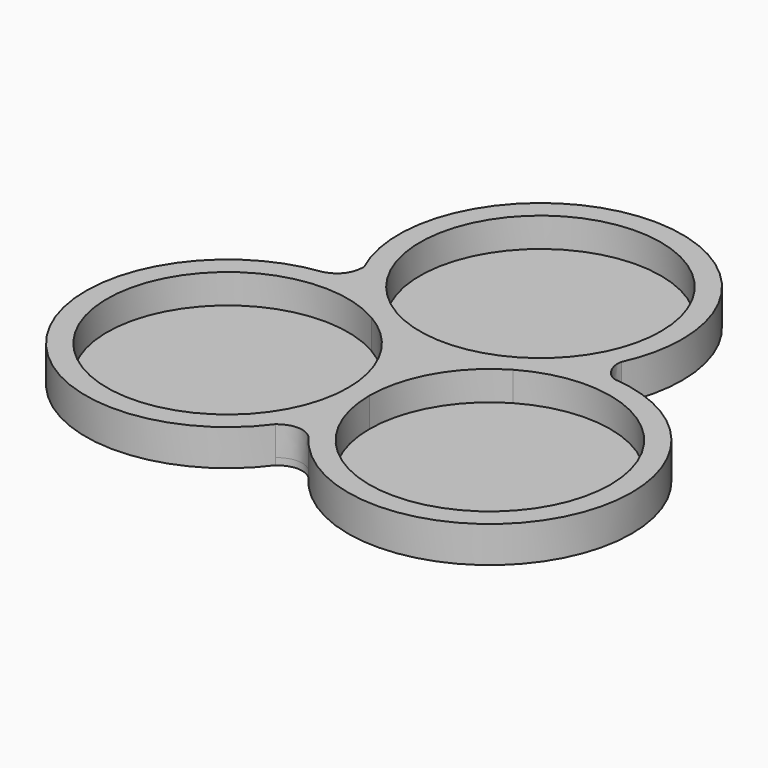
from build123d import *

# Parameters (mm, degrees)
F1_DEPTH = 0.8
F2_DEPTH = 4.25


with BuildPart() as f1:
    # F0 (on Top) → F1 (new body)
    with BuildSketch(Plane.XY):
        with BuildLine():
            ThreePointArc((-1.9441843304, -9.8063002537), (-0.8677403981, -8.1262494955), (0, -6.3294944506))
            ThreePointArc((0, -6.3294944506), (-0.934511012, -3.2258719751), (-1.25, 0))
            ThreePointArc((-1.25, 0), (-27.654259501, -7.0749999351), (-8.3249998702, 12.2542593886))
            ThreePointArc((-8.3249998702, 12.2542593886), (-10.9609425294, 14.14041688), (-13.1815029873, 16.5015384436))
            ThreePointArc((-13.1815029873, 16.5015384436), (-15.2798080373, 16.6495661773), (-17.3800314921, 16.5318473042))
            ThreePointArc((-17.3800314921, 16.5318473042), (-29.7648149942, -8.4187047805), (-1.9441843304, -9.8063002537))
        make_face()
        with BuildLine():
            ThreePointArc((29.55, 0), (15.4, -14.15), (1.25, 0))
            ThreePointArc((1.25, 0), (0.934511012, -3.2258719751), (0, -6.3294944506))
            ThreePointArc((0, -6.3294944506), (0.8614331824, -8.1149599439), (1.9289676052, -9.7853863601))
            ThreePointArc((1.9289676052, -9.7853863601), (20.5444052438, -15.835327426), (32.05, 0))
            ThreePointArc((32.05, 0), (27.6726376204, 11.2518827686), (16.8422083078, 16.5874209929))
            ThreePointArc((16.8422083078, 16.5874209929), (15.0094875272, 16.6454197907), (13.1815029873, 16.5015384436))
            ThreePointArc((13.1815029873, 16.5015384436), (10.9609426486, 14.1404169843), (8.3250001445, 12.2542595469))
            ThreePointArc((8.3250001445, 12.2542595469), (22.4750000722, 12.2542594219), (29.55, 0))
        make_face()
        with BuildLine():
            ThreePointArc((7.075000026, 14.419322988), (10.026431588, 15.7590374872), (13.1815029873, 16.5015384436))
            ThreePointArc((13.1815029873, 16.5015384436), (14.2351793304, 18.0374855502), (15.1107061135, 19.681511159))
            ThreePointArc((15.1107061135, 19.681511159), (16.2606235549, 23.0938308244), (16.65, 26.6735824366))
            ThreePointArc((16.65, 26.6735824366), (-3.5797516122, 42.9342059915), (-15.1107061135, 19.681511159))
            ThreePointArc((-15.1107061135, 19.681511159), (-14.2351793304, 18.0374855502), (-13.1815029873, 16.5015384436))
            ThreePointArc((-13.1815029873, 16.5015384436), (-10.0264316681, 15.7590375145), (-7.0750001725, 14.4193230726))
            ThreePointArc((-7.0750001725, 14.4193230726), (-7.0749999137, 38.9278419499), (14.15, 26.6735824366))
            ThreePointArc((14.15, 26.6735824366), (12.254259471, 19.5985824495), (7.075000026, 14.419322988))
        make_face()
        with BuildLine():
            ThreePointArc((8.3250001445, 12.2542595469), (3.1457405781, 7.0750000722), (1.25, 0))
            ThreePointArc((1.25, 0), (15.4, -14.15), (29.55, 0))
            ThreePointArc((29.55, 0), (22.4750000722, 12.2542594219), (8.3250001445, 12.2542595469))
        make_face()
        with BuildLine():
            ThreePointArc((-7.0750001725, 14.4193230726), (-8.46e-08, 12.5235824366), (7.075000026, 14.419322988))
            ThreePointArc((7.075000026, 14.419322988), (12.254259471, 19.5985824495), (14.15, 26.6735824366))
            ThreePointArc((14.15, 26.6735824366), (-7.0749999137, 38.9278419499), (-7.0750001725, 14.4193230726))
        make_face()
        with BuildLine():
            ThreePointArc((-8.3249998702, 12.2542593886), (-27.654259501, -7.0749999351), (-1.25, 0))
            ThreePointArc((-1.25, 0), (-3.145740499, 7.0749999351), (-8.3249998702, 12.2542593886))
        make_face()
        with BuildLine():
            ThreePointArc((15.1107061135, 19.681511159), (14.2351793304, 18.0374855502), (13.1815029873, 16.5015384436))
            ThreePointArc((13.1815029873, 16.5015384436), (15.0094875272, 16.6454197907), (16.8422083078, 16.5874209929))
            add(Edge.make_bspline(
                [(15.1107061135, 19.681511159), (14.7949214968, 18.5853722938), (15.7018187627, 16.8237693996), (16.8422083078, 16.5874209929)],
                knots=[0, 0, 0, 0, 3.5456302408, 3.5456302408, 3.5456302408, 3.5456302408], degree=3))
        make_face()
        with BuildLine():
            ThreePointArc((1.9289676052, -9.7853863601), (0.8614331824, -8.1149599439), (0, -6.3294944506))
            ThreePointArc((0, -6.3294944506), (-0.8677403981, -8.1262494955), (-1.9441843304, -9.8063002537))
            add(Edge.make_bspline(
                [(-1.9441843304, -9.8063002537), (-0.6821660037, -8.8059748815), (0.8183994243, -8.8064145129), (1.9289676052, -9.7853863601)],
                knots=[0, 0, 0, 0, 3.8732083996, 3.8732083996, 3.8732083996, 3.8732083996], degree=3))
        make_face()
        with BuildLine():
            add(Edge.make_bspline(
                [(-17.3800314921, 16.5318473042), (-15.7951249097, 17.0070298051), (-15.1426289174, 18.1383281448), (-15.1107061135, 19.681511159)],
                knots=[0, 0, 0, 0, 3.8820381337, 3.8820381337, 3.8820381337, 3.8820381337], degree=3))
            ThreePointArc((-17.3800314921, 16.5318473042), (-15.2798080373, 16.6495661773), (-13.1815029873, 16.5015384436))
            ThreePointArc((-13.1815029873, 16.5015384436), (-14.2351793304, 18.0374855502), (-15.1107061135, 19.681511159))
        make_face()
        with BuildLine():
            ThreePointArc((-2.2184970127, 10.172043993), (-0.980677027, 8.325), (0, 6.3294944506))
            ThreePointArc((0, 6.3294944506), (0.980677027, 8.325), (2.2184970127, 10.172043993))
            ThreePointArc((2.2184970127, 10.172043993), (0, 10.0235824366), (-2.2184970127, 10.172043993))
        make_face()
        with BuildLine():
            ThreePointArc((0, 6.3294944506), (0.934511012, 3.2258719751), (1.25, 0))
            ThreePointArc((1.25, 0), (3.1457405781, 7.0750000722), (8.3250001445, 12.2542595469))
            ThreePointArc((8.3250001445, 12.2542595469), (5.3735685051, 10.9145449811), (2.2184970127, 10.172043993))
            ThreePointArc((2.2184970127, 10.172043993), (0.980677027, 8.325), (0, 6.3294944506))
        make_face()
        with BuildLine():
            ThreePointArc((-2.2184970127, 10.172043993), (0, 10.0235824366), (2.2184970127, 10.172043993))
            ThreePointArc((2.2184970127, 10.172043993), (4.4390574255, 12.5331655171), (7.075000026, 14.419322988))
            ThreePointArc((7.075000026, 14.419322988), (-8.46e-08, 12.5235824366), (-7.0750001725, 14.4193230726))
            ThreePointArc((-7.0750001725, 14.4193230726), (-4.4390574892, 12.5331655728), (-2.2184970127, 10.172043993))
        make_face()
        with BuildLine():
            ThreePointArc((-1.25, 0), (-0.934511012, 3.2258719751), (0, 6.3294944506))
            ThreePointArc((0, 6.3294944506), (-0.980677027, 8.325), (-2.2184970127, 10.172043993))
            ThreePointArc((-2.2184970127, 10.172043993), (-5.3735683552, 10.91454493), (-8.3249998702, 12.2542593886))
            ThreePointArc((-8.3249998702, 12.2542593886), (-3.145740499, 7.0749999351), (-1.25, 0))
        make_face()
        with BuildLine():
            ThreePointArc((2.2184970127, 10.172043993), (5.3735685051, 10.9145449811), (8.3250001445, 12.2542595469))
            ThreePointArc((8.3250001445, 12.2542595469), (10.9609426486, 14.1404169843), (13.1815029873, 16.5015384436))
            ThreePointArc((13.1815029873, 16.5015384436), (10.026431588, 15.7590374872), (7.075000026, 14.419322988))
            ThreePointArc((7.075000026, 14.419322988), (4.4390574255, 12.5331655171), (2.2184970127, 10.172043993))
        make_face()
        with BuildLine():
            ThreePointArc((0, -6.3294944506), (0.934511012, -3.2258719751), (1.25, 0))
            ThreePointArc((1.25, 0), (0.934511012, 3.2258719751), (0, 6.3294944506))
            ThreePointArc((0, 6.3294944506), (-0.934511012, 3.2258719751), (-1.25, 0))
            ThreePointArc((-1.25, 0), (-0.934511012, -3.2258719751), (0, -6.3294944506))
        make_face()
        with BuildLine():
            ThreePointArc((-8.3249998702, 12.2542593886), (-5.3735683552, 10.91454493), (-2.2184970127, 10.172043993))
            ThreePointArc((-2.2184970127, 10.172043993), (-4.4390574892, 12.5331655728), (-7.0750001725, 14.4193230726))
            ThreePointArc((-7.0750001725, 14.4193230726), (-10.0264316681, 15.7590375145), (-13.1815029873, 16.5015384436))
            ThreePointArc((-13.1815029873, 16.5015384436), (-10.9609425294, 14.14041688), (-8.3249998702, 12.2542593886))
        make_face()
    extrude(amount=F1_DEPTH)

    # F0 (on Top) → F2 (join)
    with BuildSketch(Plane.XY):
        with BuildLine():
            ThreePointArc((29.55, 0), (15.4, -14.15), (1.25, 0))
            ThreePointArc((1.25, 0), (0.934511012, -3.2258719751), (0, -6.3294944506))
            ThreePointArc((0, -6.3294944506), (0.8614331824, -8.1149599439), (1.9289676052, -9.7853863601))
            ThreePointArc((1.9289676052, -9.7853863601), (20.5444052438, -15.835327426), (32.05, 0))
            ThreePointArc((32.05, 0), (27.6726376204, 11.2518827686), (16.8422083078, 16.5874209929))
            ThreePointArc((16.8422083078, 16.5874209929), (15.0094875272, 16.6454197907), (13.1815029873, 16.5015384436))
            ThreePointArc((13.1815029873, 16.5015384436), (10.9609426486, 14.1404169843), (8.3250001445, 12.2542595469))
            ThreePointArc((8.3250001445, 12.2542595469), (22.4750000722, 12.2542594219), (29.55, 0))
        make_face()
        with BuildLine():
            ThreePointArc((-1.9441843304, -9.8063002537), (-0.8677403981, -8.1262494955), (0, -6.3294944506))
            ThreePointArc((0, -6.3294944506), (-0.934511012, -3.2258719751), (-1.25, 0))
            ThreePointArc((-1.25, 0), (-27.654259501, -7.0749999351), (-8.3249998702, 12.2542593886))
            ThreePointArc((-8.3249998702, 12.2542593886), (-10.9609425294, 14.14041688), (-13.1815029873, 16.5015384436))
            ThreePointArc((-13.1815029873, 16.5015384436), (-15.2798080373, 16.6495661773), (-17.3800314921, 16.5318473042))
            ThreePointArc((-17.3800314921, 16.5318473042), (-29.7648149942, -8.4187047805), (-1.9441843304, -9.8063002537))
        make_face()
        with BuildLine():
            ThreePointArc((1.9289676052, -9.7853863601), (0.8614331824, -8.1149599439), (0, -6.3294944506))
            ThreePointArc((0, -6.3294944506), (-0.8677403981, -8.1262494955), (-1.9441843304, -9.8063002537))
            add(Edge.make_bspline(
                [(-1.9441843304, -9.8063002537), (-0.6821660037, -8.8059748815), (0.8183994243, -8.8064145129), (1.9289676052, -9.7853863601)],
                knots=[0, 0, 0, 0, 3.8732083996, 3.8732083996, 3.8732083996, 3.8732083996], degree=3))
        make_face()
        with BuildLine():
            ThreePointArc((15.1107061135, 19.681511159), (14.2351793304, 18.0374855502), (13.1815029873, 16.5015384436))
            ThreePointArc((13.1815029873, 16.5015384436), (15.0094875272, 16.6454197907), (16.8422083078, 16.5874209929))
            add(Edge.make_bspline(
                [(15.1107061135, 19.681511159), (14.7949214968, 18.5853722938), (15.7018187627, 16.8237693996), (16.8422083078, 16.5874209929)],
                knots=[0, 0, 0, 0, 3.5456302408, 3.5456302408, 3.5456302408, 3.5456302408], degree=3))
        make_face()
        with BuildLine():
            ThreePointArc((7.075000026, 14.419322988), (10.026431588, 15.7590374872), (13.1815029873, 16.5015384436))
            ThreePointArc((13.1815029873, 16.5015384436), (14.2351793304, 18.0374855502), (15.1107061135, 19.681511159))
            ThreePointArc((15.1107061135, 19.681511159), (16.2606235549, 23.0938308244), (16.65, 26.6735824366))
            ThreePointArc((16.65, 26.6735824366), (-3.5797516122, 42.9342059915), (-15.1107061135, 19.681511159))
            ThreePointArc((-15.1107061135, 19.681511159), (-14.2351793304, 18.0374855502), (-13.1815029873, 16.5015384436))
            ThreePointArc((-13.1815029873, 16.5015384436), (-10.0264316681, 15.7590375145), (-7.0750001725, 14.4193230726))
            ThreePointArc((-7.0750001725, 14.4193230726), (-7.0749999137, 38.9278419499), (14.15, 26.6735824366))
            ThreePointArc((14.15, 26.6735824366), (12.254259471, 19.5985824495), (7.075000026, 14.419322988))
        make_face()
        with BuildLine():
            add(Edge.make_bspline(
                [(-17.3800314921, 16.5318473042), (-15.7951249097, 17.0070298051), (-15.1426289174, 18.1383281448), (-15.1107061135, 19.681511159)],
                knots=[0, 0, 0, 0, 3.8820381337, 3.8820381337, 3.8820381337, 3.8820381337], degree=3))
            ThreePointArc((-17.3800314921, 16.5318473042), (-15.2798080373, 16.6495661773), (-13.1815029873, 16.5015384436))
            ThreePointArc((-13.1815029873, 16.5015384436), (-14.2351793304, 18.0374855502), (-15.1107061135, 19.681511159))
        make_face()
        with BuildLine():
            ThreePointArc((-8.3249998702, 12.2542593886), (-5.3735683552, 10.91454493), (-2.2184970127, 10.172043993))
            ThreePointArc((-2.2184970127, 10.172043993), (-4.4390574892, 12.5331655728), (-7.0750001725, 14.4193230726))
            ThreePointArc((-7.0750001725, 14.4193230726), (-10.0264316681, 15.7590375145), (-13.1815029873, 16.5015384436))
            ThreePointArc((-13.1815029873, 16.5015384436), (-10.9609425294, 14.14041688), (-8.3249998702, 12.2542593886))
        make_face()
        with BuildLine():
            ThreePointArc((-1.25, 0), (-0.934511012, 3.2258719751), (0, 6.3294944506))
            ThreePointArc((0, 6.3294944506), (-0.980677027, 8.325), (-2.2184970127, 10.172043993))
            ThreePointArc((-2.2184970127, 10.172043993), (-5.3735683552, 10.91454493), (-8.3249998702, 12.2542593886))
            ThreePointArc((-8.3249998702, 12.2542593886), (-3.145740499, 7.0749999351), (-1.25, 0))
        make_face()
        with BuildLine():
            ThreePointArc((-2.2184970127, 10.172043993), (0, 10.0235824366), (2.2184970127, 10.172043993))
            ThreePointArc((2.2184970127, 10.172043993), (4.4390574255, 12.5331655171), (7.075000026, 14.419322988))
            ThreePointArc((7.075000026, 14.419322988), (-8.46e-08, 12.5235824366), (-7.0750001725, 14.4193230726))
            ThreePointArc((-7.0750001725, 14.4193230726), (-4.4390574892, 12.5331655728), (-2.2184970127, 10.172043993))
        make_face()
        with BuildLine():
            ThreePointArc((2.2184970127, 10.172043993), (5.3735685051, 10.9145449811), (8.3250001445, 12.2542595469))
            ThreePointArc((8.3250001445, 12.2542595469), (10.9609426486, 14.1404169843), (13.1815029873, 16.5015384436))
            ThreePointArc((13.1815029873, 16.5015384436), (10.026431588, 15.7590374872), (7.075000026, 14.419322988))
            ThreePointArc((7.075000026, 14.419322988), (4.4390574255, 12.5331655171), (2.2184970127, 10.172043993))
        make_face()
        with BuildLine():
            ThreePointArc((0, 6.3294944506), (0.934511012, 3.2258719751), (1.25, 0))
            ThreePointArc((1.25, 0), (3.1457405781, 7.0750000722), (8.3250001445, 12.2542595469))
            ThreePointArc((8.3250001445, 12.2542595469), (5.3735685051, 10.9145449811), (2.2184970127, 10.172043993))
            ThreePointArc((2.2184970127, 10.172043993), (0.980677027, 8.325), (0, 6.3294944506))
        make_face()
        with BuildLine():
            ThreePointArc((0, -6.3294944506), (0.934511012, -3.2258719751), (1.25, 0))
            ThreePointArc((1.25, 0), (0.934511012, 3.2258719751), (0, 6.3294944506))
            ThreePointArc((0, 6.3294944506), (-0.934511012, 3.2258719751), (-1.25, 0))
            ThreePointArc((-1.25, 0), (-0.934511012, -3.2258719751), (0, -6.3294944506))
        make_face()
        with BuildLine():
            ThreePointArc((-2.2184970127, 10.172043993), (-0.980677027, 8.325), (0, 6.3294944506))
            ThreePointArc((0, 6.3294944506), (0.980677027, 8.325), (2.2184970127, 10.172043993))
            ThreePointArc((2.2184970127, 10.172043993), (0, 10.0235824366), (-2.2184970127, 10.172043993))
        make_face()
    extrude(amount=F2_DEPTH)


solid = f1.part
